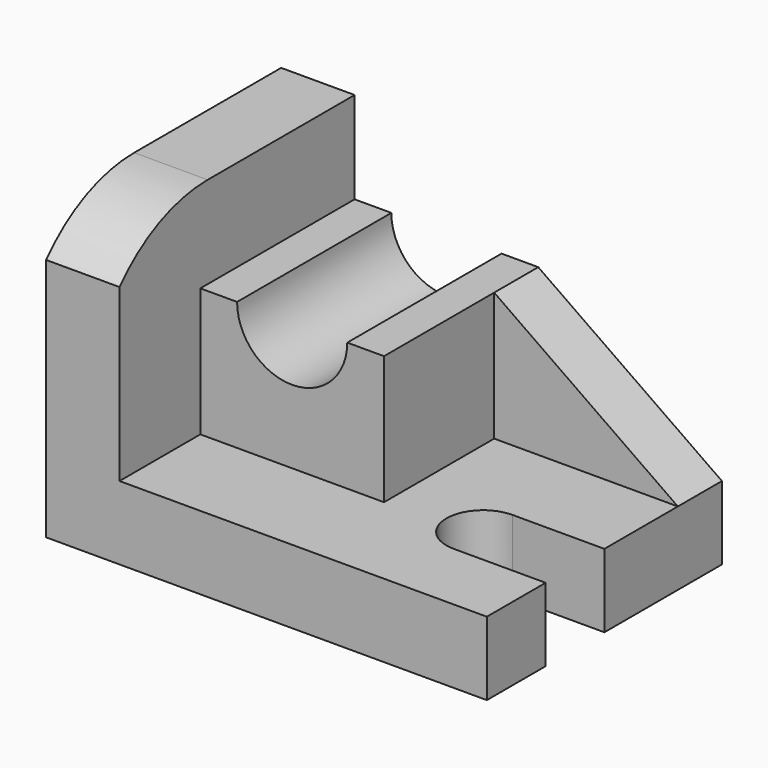
from build123d import *

# Parameters (mm, degrees)
F0_W      = 96
F0_H      = 64
F1_DEPTH  = 16
F3_DEPTH  = 16
F4_W      = 40
F4_H      = 28
F5_DEPTH  = 42
F7_DEPTH  = 42
F8_W      = 20
F8_H      = 16
F9_DEPTH  = 16
F11_DEPTH = 12


with BuildPart() as f1:
    # F0 (on Top) → F1 (new body)
    with BuildSketch(Plane.XY):
        with Locations((-41.832156, -7.992789)):
            Rectangle(F0_W, F0_H)
    extrude(amount=F1_DEPTH)

    # F2 (on face) → F3 (join)
    with BuildSketch(Plane(origin=(-89.832156, 0, 0), x_dir=(0, -1, 0), z_dir=(-1, 0, 0))):
        with BuildLine():
            Line((-24.007211, 64), (-24.007211, 16))
            Line((-24.007211, 16), (39.992789, 16))
            Line((39.992789, 16), (39.992789, 53.190336))
            ThreePointArc((39.992789, 53.190336), (29.165485, 61.172682), (16.014263, 64))
            Line((16.014263, 64), (-24.007211, 64))
        make_face()
    extrude(amount=-F3_DEPTH)

    # F4 (on face) → F5 (join)
    with BuildSketch(Plane(origin=(0, 24.007211, 0), x_dir=(-1, 0, 0), z_dir=(0, 1, 0))):
        with Locations((53.832156, 30)):
            Rectangle(F4_W, F4_H)
    extrude(amount=-F5_DEPTH)

    # F6 (on face) → F7 (cut)
    with BuildSketch(Plane.XZ.offset(17.992789)):
        with BuildLine():
            ThreePointArc((-65.832156, 44), (-53.832156, 32), (-41.832156, 44))
            Line((-41.832156, 44), (-65.832156, 44))
        make_face()
    extrude(amount=-F7_DEPTH, mode=Mode.SUBTRACT)

    # F8 (on face) → F9 (cut)
    with BuildSketch(Plane.XY.offset(16)):
        with Locations((-3.832156, -15.992789)):
            Rectangle(F8_W, F8_H)
        with BuildLine():
            ThreePointArc((-13.832156, -7.992789), (-21.832156, -15.992789), (-13.832156, -23.992789))
            Line((-13.832156, -23.992789), (-13.832156, -7.992789))
        make_face()
    extrude(amount=-F9_DEPTH, mode=Mode.SUBTRACT)

    # F10 (on face) → F11 (join)
    with BuildSketch(Plane(origin=(0, 24.007211, 0), x_dir=(-1, 0, 0), z_dir=(0, 1, 0))):
        Polygon((33.832156, 44), (-6.167844, 16), (33.832156, 16), align=None)
    extrude(amount=-F11_DEPTH)


solid = f1.part
